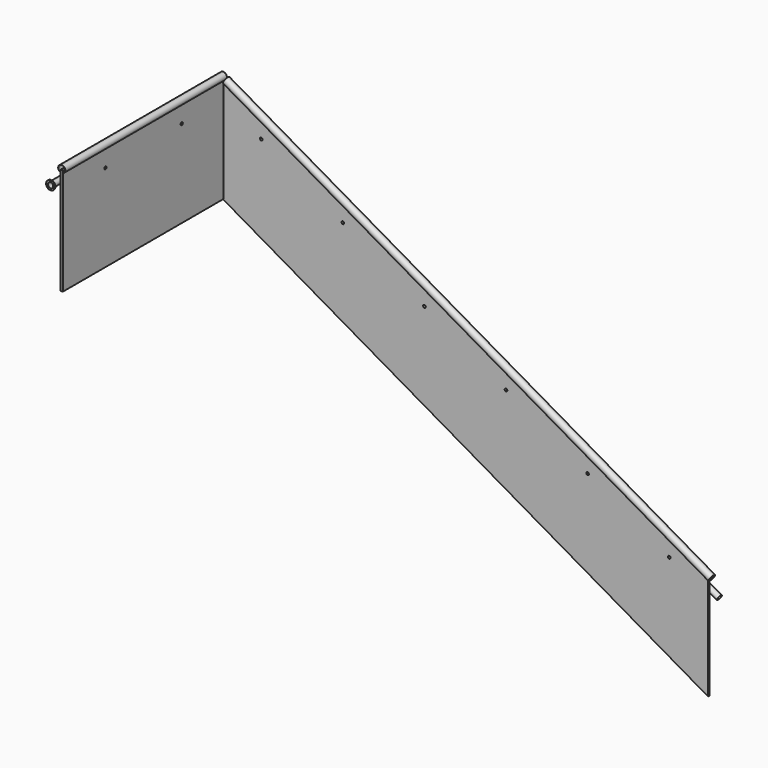
from build123d import *

# Parameters (mm, degrees)
F0_R      = 12
F1_DEPTH  = 9.5
F2_W      = 1800
F2_H      = 950
F2_R      = 12
F3_DEPTH  = 9.5
F11_R     = 31.75
F12_DEPTH = 2
F18_R     = 25
F18_R_2   = 23
F21_R     = 25
F21_R_2   = 23
F23_R     = 25
F24_DEPTH = 3
F25_R     = 40
F25_R_2   = 4
F25_R_3   = 25
F26_DEPTH = 5


with BuildPart() as f1:
    # F0 (on Front) → F1 (new body, symmetric)
    with BuildSketch(Plane.XZ):
        Polygon((0, 950), (0, 0), (4330.1270189222, -2500), (4330.1270189222, -1550), align=None)
        with Locations((3983.7168574084, -1520)):
            Circle(F0_R, mode=Mode.SUBTRACT)
        with Locations((3256.2555182295, -1100)):
            Circle(F0_R, mode=Mode.SUBTRACT)
        with Locations((1801.3328398716, -260)):
            Circle(F0_R, mode=Mode.SUBTRACT)
        with Locations((1073.8715006927, 160)):
            Circle(F0_R, mode=Mode.SUBTRACT)
        with Locations((346.4101615138, 580)):
            Circle(F0_R, mode=Mode.SUBTRACT)
        with Locations((2528.7941790506, -680)):
            Circle(F0_R, mode=Mode.SUBTRACT)
    extrude(amount=F1_DEPTH, both=True)

    # F2 (on Right) → F3 (join, symmetric)
    with BuildSketch(Plane.YZ):
        with Locations((-900, 475)):
            Rectangle(F2_W, F2_H)
        with Locations((-1325, 780)):
            Circle(F2_R, mode=Mode.SUBTRACT)
        with Locations((-475, 780)):
            Circle(F2_R, mode=Mode.SUBTRACT)
    extrude(amount=F3_DEPTH, both=True)


with BuildPart() as f7:
    # F7: sweep along a path in F5
    with BuildLine(Plane.YZ) as f7_path:
        Line((0, 950), (-1800, 950))
    # F6 (on face) → F7 (sweep)
    with BuildSketch(Plane.XZ.offset(1800)):
        with BuildLine():
            Line((9.5, 950), (9.5, 930))
            ThreePointArc((9.5, 930), (0, 992.045420446), (-9.5, 930))
            Line((-9.5, 930), (-9.5, 950))
            Line((-9.5, 950), (9.5, 950))
        make_face()
        with BuildLine():
            ThreePointArc((-11, 932.1163058396), (0, 990.545420446), (11, 932.1163058396))
            Line((11, 932.1163058396), (11, 951.5))
            Line((11, 951.5), (-11, 951.5))
            Line((-11, 951.5), (-11, 932.1163058396))
        make_face(mode=Mode.SUBTRACT)
    sweep(path=f7_path.line)

    # F11 (on face) → F12 (join)
    with BuildSketch(Plane(origin=(0, 0, 0), x_dir=(-1, 0, 0), z_dir=(0, 1, 0))):
        with Locations((0, 960.295420446)):
            Circle(F11_R)
    extrude(amount=-F12_DEPTH)


with BuildPart() as f10:
    # F10: sweep along a path in F0
    with BuildLine(Plane.XZ) as f10_path:
        Line((4330.1270189222, -1550), (0, 950))
    # F9 (on line) → F10 (sweep)
    with BuildSketch(Plane(origin=(3944.7457142381, 0, -2277.5), x_dir=(0, -1, 0), z_dir=(-0.8660254038, 0, 0.5))):
        with BuildLine():
            Line((10, 822.7241335952), (10, 792.5900581987))
            ThreePointArc((10, 792.5900581987), (0, 854.4741335952), (-10, 792.5900581987))
            Line((-10, 792.5900581987), (-10, 822.7241335952))
            Line((-10, 822.7241335952), (10, 822.7241335952))
        make_face()
        with BuildLine():
            ThreePointArc((-11.5, 794.7453469882), (0, 852.9741335952), (11.5, 794.7453469882))
            Line((11.5, 794.7453469882), (11.5, 824.2241335952))
            Line((11.5, 824.2241335952), (-11.5, 824.2241335952))
            Line((-11.5, 824.2241335952), (-11.5, 794.7453469882))
        make_face(mode=Mode.SUBTRACT)
    sweep(path=f10_path.line)


with BuildPart() as f19:
    # F19: sweep along a path in F14
    with BuildLine(Plane.XZ.offset(-100)) as f19_path:
        Line((4342.7103214142, -1765), (-100, 800))
    # F18 (on line) → F19 (sweep)
    with BuildSketch(Plane(origin=(4021.3001599004, 0, -2321.6987298108), x_dir=(0, -1, 0), z_dir=(-0.8660254038, 0, 0.5))):
        with Locations((-100, 642.8203230276)):
            Circle(F18_R)
        with Locations((-100, 642.8203230276)):
            Circle(F18_R_2, mode=Mode.SUBTRACT)
    sweep(path=f19_path.line)

    # F22: sweep along a path in F17
    with BuildLine(Plane.XY.offset(800)) as f22_path:
        Line((-100, 100), (-100, -1800))
    # F21 (on line) → F22 (sweep)
    with BuildSketch(Plane.XZ.offset(1800)):
        with Locations((-100, 800)):
            Circle(F21_R)
        with Locations((-100, 800)):
            Circle(F21_R_2, mode=Mode.SUBTRACT)
    sweep(path=f22_path.line)

    # F23 (on face) → F24 (join)
    with BuildSketch(Plane(origin=(-421.4101615138, 0, 243.3012701892), x_dir=(0, -1, 0), z_dir=(-0.8660254038, 0, 0.5))):
        with Locations((-100, 642.8203230276)):
            Circle(F23_R)
    extrude(amount=-F24_DEPTH)


with BuildPart() as f26:
    # F25 (on line) → F26 (new body)
    with BuildSketch(Plane.XZ.offset(1800)):
        with Locations((-100, 800)):
            Circle(F25_R)
        with Locations((-128.145825623, 783.75)):
            Circle(F25_R_2, mode=Mode.SUBTRACT)
        with Locations((-71.854174377, 783.75)):
            Circle(F25_R_2, mode=Mode.SUBTRACT)
        with Locations((-100, 800)):
            Circle(F25_R_3, mode=Mode.SUBTRACT)
        with Locations((-100, 832.5)):
            Circle(F25_R_2, mode=Mode.SUBTRACT)
    extrude(amount=-F26_DEPTH)


solid = Compound([f1.part, f7.part, f10.part, f19.part, f26.part])
